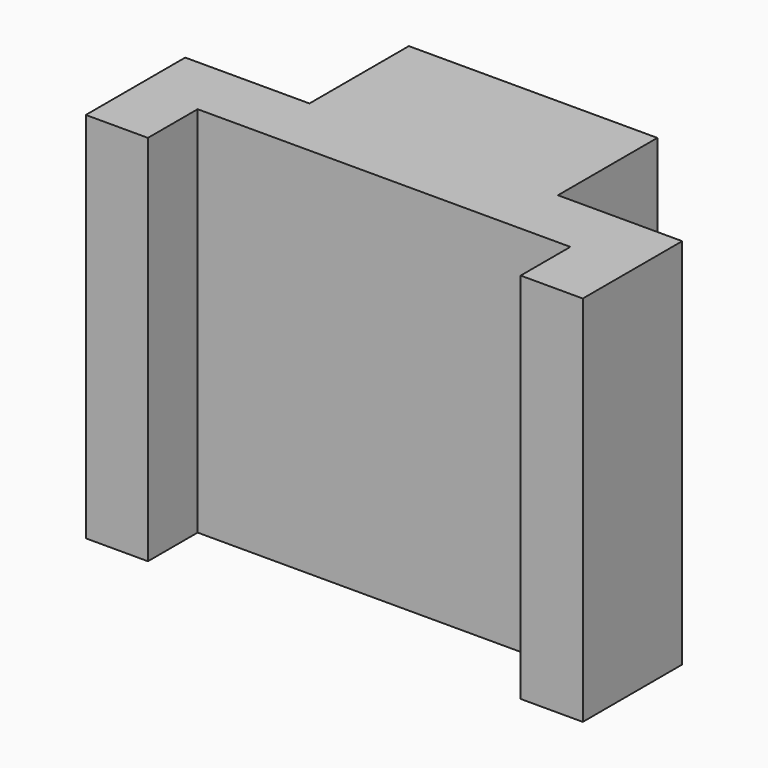
from build123d import *

# Parameters (mm, degrees)
F0_W     = 80
F0_H     = 60
F1_DEPTH = 40
F2_W     = 60
F2_H     = 60
F3_DEPTH = 10
F4_W     = 20
F4_H     = 60
F5_DEPTH = 20


with BuildPart() as f1:
    # F0 (on Front) → F1 (new body)
    with BuildSketch(Plane.XZ):
        with Locations((3.965829, -16.53871)):
            Rectangle(F0_W, F0_H)
    extrude(amount=F1_DEPTH)

    # F2 (on face) → F3 (cut)
    with BuildSketch(Plane.XZ.offset(40)):
        with Locations((3.965829, -16.53871)):
            Rectangle(F2_W, F2_H)
    extrude(amount=-F3_DEPTH, mode=Mode.SUBTRACT)

    # F4 (on face) → F5 (cut)
    with BuildSketch(Plane(origin=(0, 0, 0), x_dir=(-1, 0, 0), z_dir=(0, 1, 0))):
        with Locations((26.034171, -16.53871)):
            Rectangle(F4_W, F4_H)
        with Locations((-33.965829, -16.53871)):
            Rectangle(F4_W, F4_H)
    extrude(amount=-F5_DEPTH, mode=Mode.SUBTRACT)


solid = f1.part
